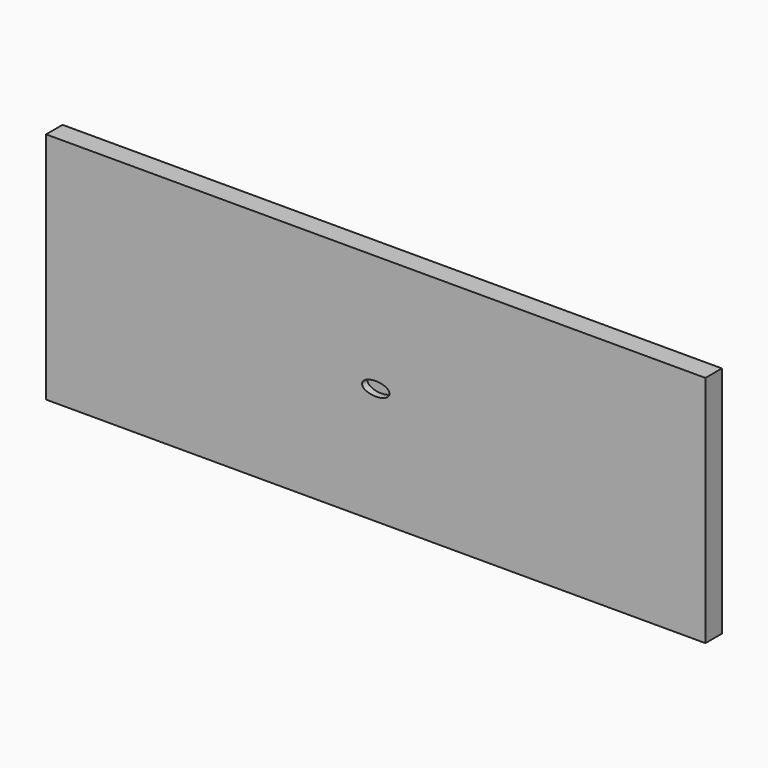
from build123d import *

# Parameters (mm, degrees)
F0_W     = 609.6
F0_H     = 215.9
F1_DEPTH = 19.05
F3_DEPTH = 6.35


with BuildPart() as f1:
    # F0 (on Front) → F1 (new body)
    with BuildSketch(Plane.XZ):
        Rectangle(F0_W, F0_H)
    extrude(amount=F1_DEPTH)

    # F2 (on face) → F3 (cut)
    with BuildSketch(Plane.XZ.offset(19.05)):
        with BuildLine():
            add(Edge.make_bspline(
                [(0, 6.35), (-21.997045, 6.35), (-10.998523, -3.175), (0, -12.7), (10.998523, -3.175), (21.997045, 6.35), (0, 6.35)],
                knots=[4.712389, 4.712389, 4.712389, 6.806784, 6.806784, 8.901179, 8.901179, 10.995574, 10.995574, 10.995574], degree=2, weights=[1, 0.5, 1, 0.5, 1, 0.5, 1]))
        make_face()
    extrude(amount=-F3_DEPTH, mode=Mode.SUBTRACT)


solid = f1.part
